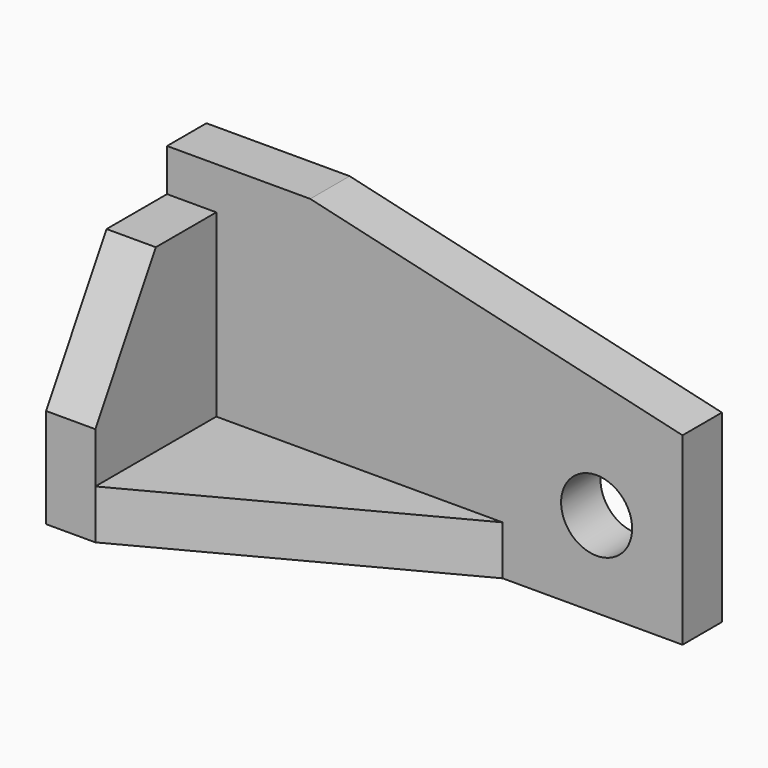
from build123d import *

# Parameters (mm, degrees)
F1_DEPTH = 60.198
F2_DEPTH = 60.198
F0_W     = 10.922
F0_H     = 33.528
F3_DEPTH = 50.8
F4_DEPTH = 10.922
F5_R     = 7.874
F6_DEPTH = 10.923
F7_DEPTH = 25.4
F9_DEPTH = 25.4


with BuildPart() as f1:
    # F0 (on Top) → F1 (new body)
    with BuildSketch(Plane.XY):
        Polygon((-70.913484, -4.775751), (-81.835484, -4.775751), (-81.835484, -15.697751), (-70.913484, -15.697751), (-50.085484, -15.697751), (-50.085484, -4.775751), align=None)
    extrude(amount=F1_DEPTH)

    # F0 (on Top) → F2 (join)
    with BuildSketch(Plane.XY):
        Polygon((32.464516, -4.775751), (-50.085484, -4.775751), (-50.085484, -15.697751), (-7.413484, -15.697751), (32.464516, -15.697751), align=None)
    extrude(amount=F2_DEPTH)

    # F0 (on Top) → F3 (join)
    with BuildSketch(Plane.XY):
        with Locations((-76.374484, -32.461751)):
            Rectangle(F0_W, F0_H)
    extrude(amount=F3_DEPTH)

    # F0 (on Top) → F4 (join)
    with BuildSketch(Plane.XY):
        Polygon((-50.085484, -15.697751), (-70.913484, -15.697751), (-70.913484, -49.225751), (-7.413484, -15.697751), align=None)
    extrude(amount=F4_DEPTH)

    # F5 (on face) → F6 (cut, through all)
    with BuildSketch(Plane.XZ.offset(15.697751)):
        with Locations((13.414516, 19.05)):
            Circle(F5_R)
    extrude(amount=-F6_DEPTH, mode=Mode.SUBTRACT)

    # F5 (on face) → F7 (cut)
    with BuildSketch(Plane.XZ.offset(15.697751)):
        Polygon((32.464516, 60.198), (-50.085484, 60.198), (32.464516, 40.890517), align=None)
    extrude(amount=-F7_DEPTH, mode=Mode.SUBTRACT)

    # F8 (on face) → F9 (cut)
    with BuildSketch(Plane(origin=(-81.835484, 0, 0), x_dir=(0, -1, 0), z_dir=(-1, 0, 0))):
        Polygon((49.225751, 50.8), (32.461751, 50.8), (49.225751, 22.098), align=None)
    extrude(amount=-F9_DEPTH, mode=Mode.SUBTRACT)


solid = f1.part
